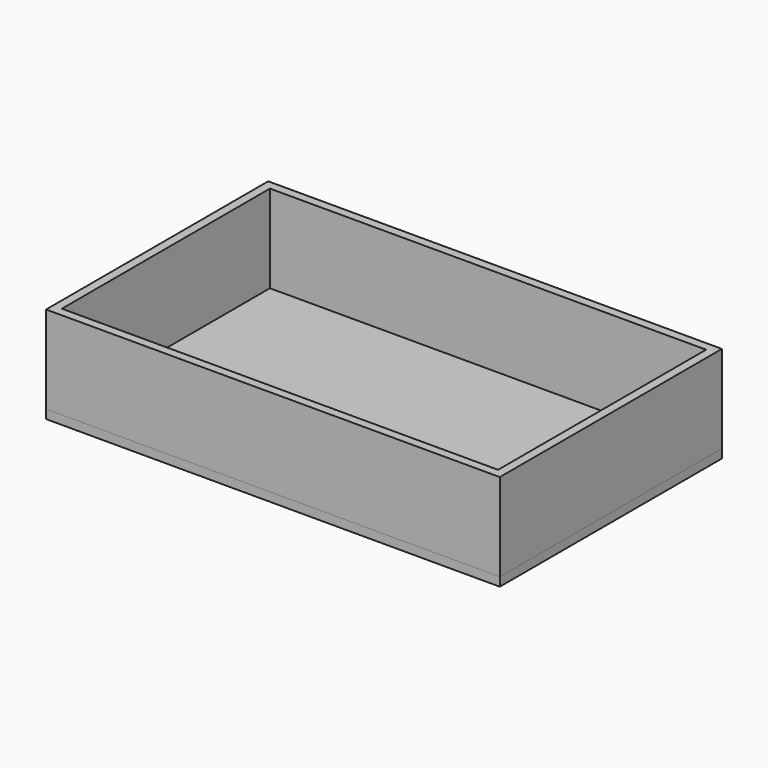
from build123d import *

# Parameters (mm, degrees)
F0_W     = 2626.868
F0_H     = 1607.312
F1_DEPTH = 50.8
F2_W     = 2626.868
F2_H     = 1607.312
F2_W_2   = 2525.268
F2_H_2   = 1505.712
F3_DEPTH = 508


with BuildPart() as f1:
    # F0 (on Top) → F1 (new body)
    with BuildSketch(Plane.XY):
        with Locations((1.948226, -40.689194)):
            Rectangle(F0_W, F0_H)
    extrude(amount=F1_DEPTH)


with BuildPart() as f3:
    # F2 (on face) → F3 (new body)
    with BuildSketch(Plane.XY.offset(50.8)):
        with Locations((1.948226, -40.689194)):
            Rectangle(F2_W, F2_H)
        with Locations((1.948226, -40.689194)):
            Rectangle(F2_W_2, F2_H_2, mode=Mode.SUBTRACT)
    extrude(amount=F3_DEPTH)


solid = Compound([f1.part, f3.part])
